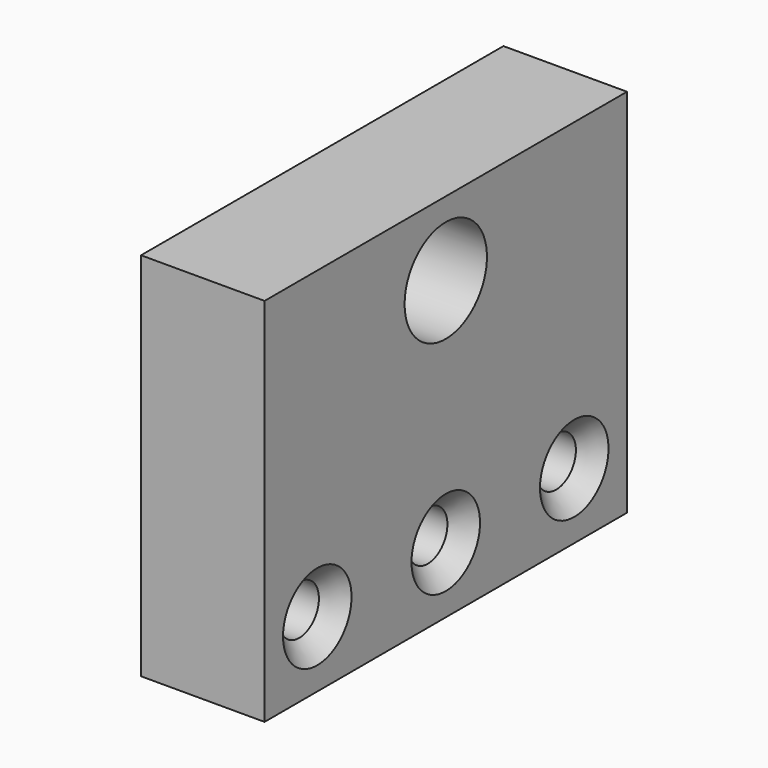
from build123d import *

# Parameters (mm, degrees)
F0_W           = 55
F0_H           = 45
F1_DEPTH       = 15
F3_D           = 12.5
F3_DEPTH       = 15
F4_D           = 6
F4_DEPTH       = 15
F4_CSINK_D     = 10.4
F4_CSINK_ANGLE = 90


with BuildPart() as f1:
    # F0 (on Right) → F1 (new body)
    with BuildSketch(Plane.YZ):
        Rectangle(F0_W, F0_H)
    extrude(amount=F1_DEPTH)

    # F3
    with Locations(Plane.YZ.offset(15)):
        with Locations((0, 13.5)):
            Hole(F3_D / 2, depth=F3_DEPTH)

    # F4
    with Locations(Plane.YZ.offset(15)):
        with Locations((-19.5, -14.5), (0, -14.5), (19.5, -14.5)):
            CounterSinkHole(F4_D / 2, F4_CSINK_D / 2, depth=F4_DEPTH, counter_sink_angle=F4_CSINK_ANGLE)


solid = f1.part
